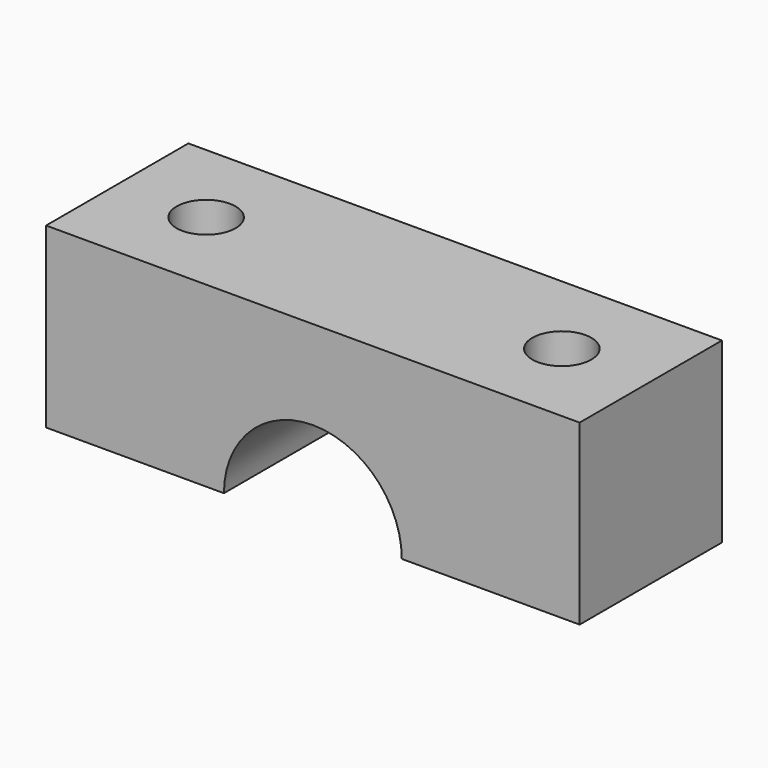
from build123d import *

# Parameters (mm, degrees)
F1_DEPTH = 25.4
F3_D     = 8.4328


with BuildPart() as f1:
    # F0 (on Front) → F1 (new body)
    with BuildSketch(Plane.XZ):
        with BuildLine():
            Line((0, 25.4), (0, 0))
            Line((0, 0), (25.4, 0))
            ThreePointArc((25.4, 0), (38.1, 12.7), (50.8, 0))
            Line((50.8, 0), (76.2, 0))
            Line((76.2, 0), (76.2, 25.4))
            Line((76.2, 25.4), (0, 25.4))
        make_face()
    extrude(amount=F1_DEPTH)

    # F3 (through all)
    with Locations(Plane.XY.offset(25.4)):
        with Locations((12.7, -12.7), (63.5, -12.7)):
            Hole(F3_D / 2)


solid = f1.part
